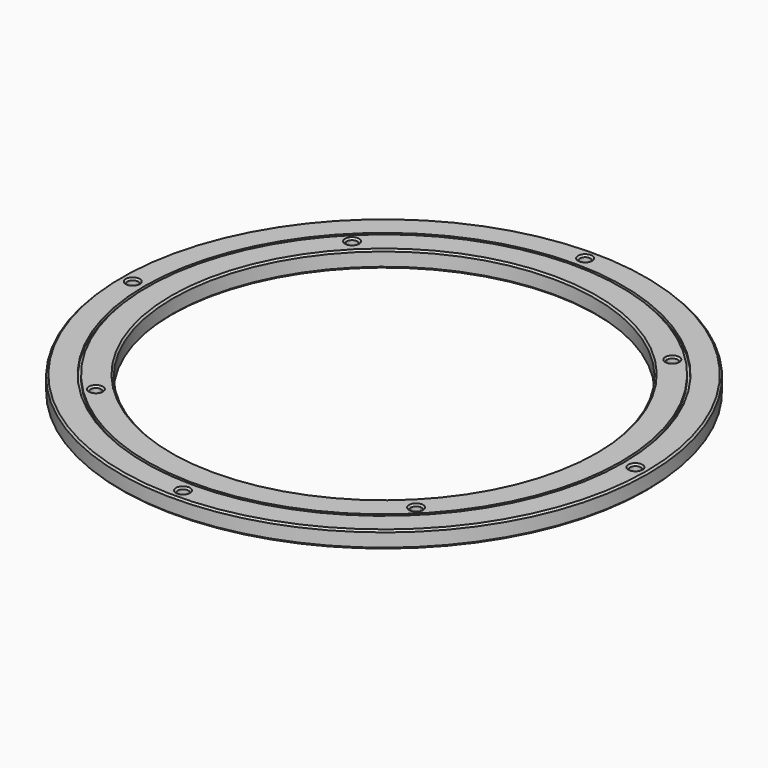
from build123d import *

# Parameters (mm, degrees)
F0_R     = 150
F0_R_2   = 136
F0_R_3   = 134.5
F0_R_4   = 120
F1_DEPTH = 9.6
F2_SIZE  = 1
F3_DEPTH = 1.5
F4_START = 8
F4_DEPTH = 17
F5_R     = 3
F6_DEPTH = 25
F7_SIZE  = 1


with BuildPart() as f1:
    # F0 (on Top) → F1 (new body)
    with BuildSketch(Plane.XY):
        Circle(F0_R)
        Circle(F0_R_2, mode=Mode.SUBTRACT)
        Circle(F0_R_2)
        Circle(F0_R_3, mode=Mode.SUBTRACT)
        Circle(F0_R_3)
        Circle(F0_R_4, mode=Mode.SUBTRACT)
    extrude(amount=F1_DEPTH)

    # F2
    f2_edges = [f1.edges().sort_by_distance(p)[0] for p in [
        (-120, 0, 9.6),
        (-150, 0, 9.6),
        (-150, 0, 0),
        (-120, 0, 0),
    ]]
    chamfer(f2_edges, length=F2_SIZE)

    # F0 (on Top) → F3 (cut)
    with BuildSketch(Plane.XY):
        Circle(F0_R_2)
        Circle(F0_R_3, mode=Mode.SUBTRACT)
    extrude(amount=F3_DEPTH, mode=Mode.SUBTRACT)

    # F0 (on Top) → F4 (cut)
    with BuildSketch(Plane.XY.offset(F4_START)):
        Circle(F0_R_2)
        Circle(F0_R_3, mode=Mode.SUBTRACT)
    extrude(amount=F4_DEPTH, mode=Mode.SUBTRACT)

    # F5 (on Top) → F6 (cut)
    with BuildSketch(Plane.XY):
        with BuildLine():
            ThreePointArc((-91, -88), (-93.1213203436, -93.1213203436), (-88, -91))
            Line((-88, -91), (-91, -91))
            Line((-91, -91), (-91, -88))
        make_face()
        with BuildLine():
            Line((-91, -91), (-88, -91))
            ThreePointArc((-88, -91), (-88.8786796564, -88.8786796564), (-91, -88))
            Line((-91, -88), (-91, -91))
        make_face()
        with BuildLine():
            Line((-91, 91), (-91, 88))
            ThreePointArc((-91, 88), (-88.8786796564, 88.8786796564), (-88, 91))
            Line((-88, 91), (-91, 91))
        make_face()
        with BuildLine():
            ThreePointArc((-88, 91), (-93.1213203436, 93.1213203436), (-91, 88))
            Line((-91, 88), (-91, 91))
            Line((-91, 91), (-88, 91))
        make_face()
        with BuildLine():
            Line((91, 91), (91, 88))
            ThreePointArc((91, 88), (93.1213203436, 88.8786796564), (94, 91))
            ThreePointArc((94, 91), (91, 94), (88, 91))
            Line((88, 91), (91, 91))
        make_face()
        with BuildLine():
            ThreePointArc((88, 91), (88.8786796564, 88.8786796564), (91, 88))
            Line((91, 88), (91, 91))
            Line((91, 91), (88, 91))
        make_face()
        with BuildLine():
            Line((91, -91), (88, -91))
            ThreePointArc((88, -91), (91, -94), (94, -91))
            ThreePointArc((94, -91), (93.1213203436, -88.8786796564), (91, -88))
            Line((91, -88), (91, -91))
        make_face()
        with BuildLine():
            ThreePointArc((91, -88), (88.8786796564, -88.8786796564), (88, -91))
            Line((88, -91), (91, -91))
            Line((91, -91), (91, -88))
        make_face()
        with Locations((0, -142.8355697997)):
            Circle(F5_R)
        with Locations((142.8355697997, 0)):
            Circle(F5_R)
        with Locations((0, 142.8355697997)):
            Circle(F5_R)
        with Locations((-142.8355697997, 0)):
            Circle(F5_R)
    extrude(amount=F6_DEPTH, mode=Mode.SUBTRACT)

    # F7
    f7_edges = [f1.edges().sort_by_distance(p)[0] for p in [
        (-94, -91, 9.6),
        (91, -94, 9.6),
        (-94, 91, 9.6),
        (94, 91, 9.6),
        (94, 91, 0),
        (-94, 91, 0),
        (91, -94, 0),
        (-94, -91, 0),
        (-3, 142.83557, 0),
        (-3, 142.83557, 9.6),
        (139.83557, 0, 9.6),
        (139.83557, 0, 0),
        (-3, -142.83557, 9.6),
        (-3, -142.83557, 0),
        (-145.83557, 0, 9.6),
        (-145.83557, 0, 0),
    ]]
    chamfer(f7_edges, length=F7_SIZE)


solid = f1.part
